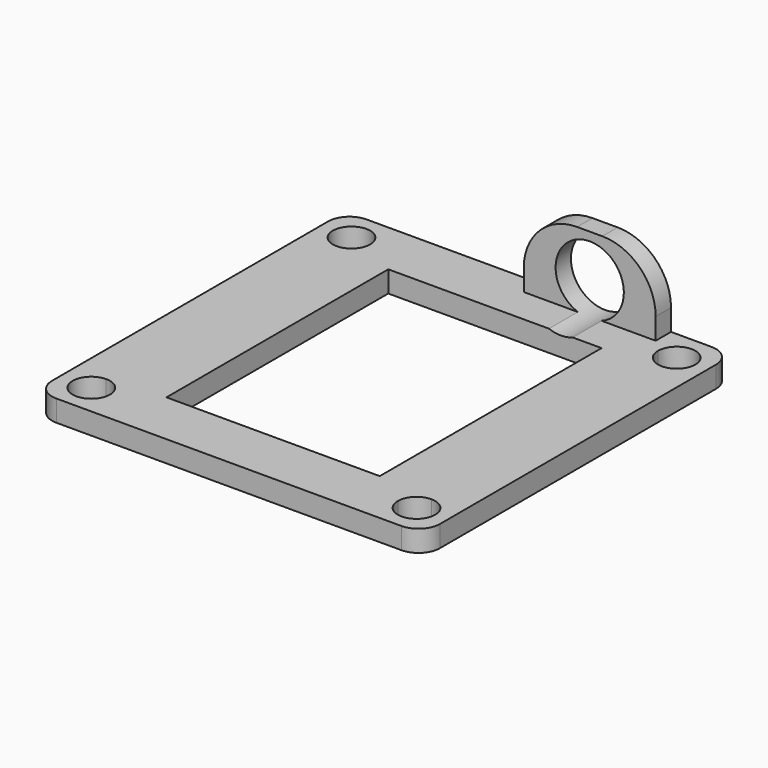
from build123d import *

# Parameters (mm, degrees)
F0_W     = 36.3689862838
F0_H     = 36.3689862838
F1_DEPTH = 2
F2_W     = 20
F2_H     = 26
F3_DEPTH = 25
F4_W     = 6
F4_H     = 1.8
F4_W_2   = 3.1844931419
F5_DEPTH = 7
F6_R     = 3.2
F7_DEPTH = 25
F8_R     = 5
F9_R     = 2


with BuildPart() as f1:
    # F0 (on Top) → F1 (new body)
    with BuildSketch(Plane.XY):
        Rectangle(F0_W, F0_H)
        with BuildLine():
            ThreePointArc((-15.25, 13.5), (-16.4874368671, 16.4874368671), (-13.5, 15.25))
            Line((-13.5, 15.25), (13.5, 15.25))
            ThreePointArc((13.5, 15.25), (15.25, 17), (17, 15.25))
            ThreePointArc((17, 15.25), (16.4874368671, 14.0125631329), (15.25, 13.5))
            Line((15.25, 13.5), (15.25, -13.5))
            ThreePointArc((15.25, -13.5), (16.4874368671, -14.0125631329), (17, -15.25))
            ThreePointArc((17, -15.25), (15.25, -17), (13.5, -15.25))
            Line((13.5, -15.25), (-13.5, -15.25))
            ThreePointArc((-13.5, -15.25), (-16.4874368671, -16.4874368671), (-15.25, -13.5))
            Line((-15.25, -13.5), (-15.25, 13.5))
        make_face(mode=Mode.SUBTRACT)
        with BuildLine():
            Line((13.5, 15.25), (-13.5, 15.25))
            ThreePointArc((-13.5, 15.25), (-14.0125631329, 14.0125631329), (-15.25, 13.5))
            Line((-15.25, 13.5), (-15.25, -13.5))
            ThreePointArc((-15.25, -13.5), (-14.0125631329, -14.0125631329), (-13.5, -15.25))
            Line((-13.5, -15.25), (13.5, -15.25))
            ThreePointArc((13.5, -15.25), (14.0125631329, -14.0125631329), (15.25, -13.5))
            Line((15.25, -13.5), (15.25, 13.5))
            ThreePointArc((15.25, 13.5), (14.0125631329, 14.0125631329), (13.5, 15.25))
        make_face()
    extrude(amount=F1_DEPTH)

    # F2 (on face) → F3 (cut)
    with BuildSketch(Plane.XY.offset(2)):
        Rectangle(F2_W, F2_H)
    extrude(amount=-F3_DEPTH, mode=Mode.SUBTRACT)

    # F4 (on face) → F5 (join)
    with BuildSketch(Plane.XY.offset(2)):
        with Locations((6.1844931419, 17.2844931419)):
            Rectangle(F4_W, F4_H)
        with Locations((1.592246571, 17.2844931419)):
            Rectangle(F4_W_2, F4_H)
        with Locations((10.7767397129, 17.2844931419)):
            Rectangle(F4_W_2, F4_H)
    extrude(amount=F5_DEPTH)

    # F6 (on face) → F7 (cut)
    with BuildSketch(Plane(origin=(0, 18.1844931419, 0), x_dir=(-1, 0, 0), z_dir=(0, 1, 0))):
        with Locations((-6.1844931419, 5)):
            Circle(F6_R)
    extrude(amount=-F7_DEPTH, mode=Mode.SUBTRACT)

    # F8
    f8_edges = [f1.edges().sort_by_distance(p)[0] for p in [
        (12.368986, 17.284493, 9),
        (0, 17.284493, 9),
    ]]
    fillet(f8_edges, radius=F8_R)

    # F9
    f9_edges = [f1.edges().sort_by_distance(p)[0] for p in [
        (-18.184493, 18.184493, 1),
        (-18.184493, -18.184493, 1),
        (18.184493, 18.184493, 1),
        (18.184493, -18.184493, 1),
    ]]
    fillet(f9_edges, radius=F9_R)


solid = f1.part
